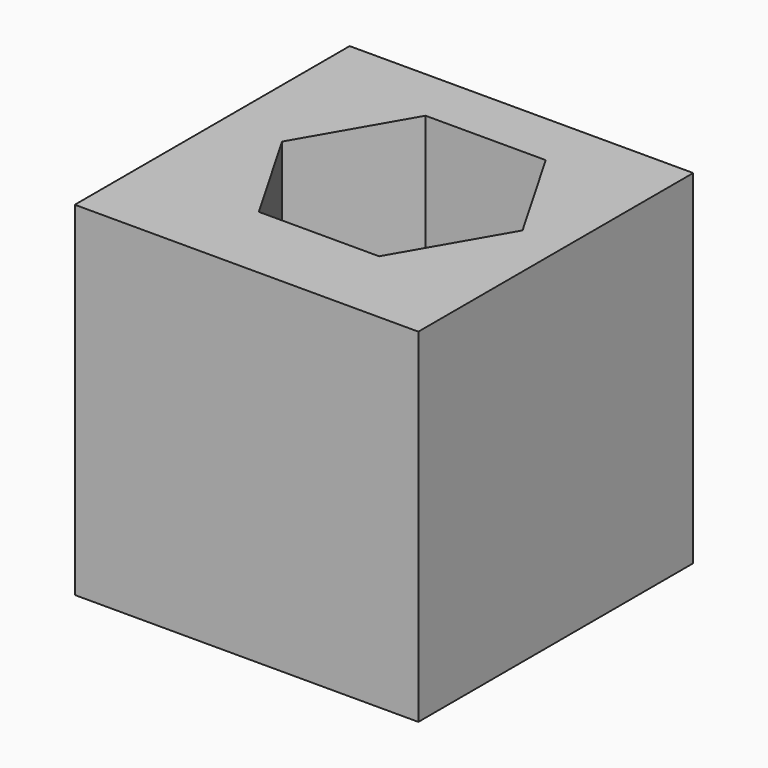
from build123d import *

# Parameters (mm, degrees)
F0_W     = 50
F0_H     = 50
F1_DEPTH = 50
F3_DEPTH = 40
F4_R     = 3.139309
F5_DEPTH = 25


with BuildPart() as f1:
    # F0 (on Top) → F1 (new body)
    with BuildSketch(Plane.XY):
        with Locations((1.594128, -1.850611)):
            Rectangle(F0_W, F0_H)
    extrude(amount=F1_DEPTH)

    # F2 (on face) → F3 (cut)
    with BuildSketch(Plane.XY.offset(50)):
        Polygon((-5.974522, -15.155445), (11.525478, -15.155445), (20.275478, 0), (11.525478, 15.155445), (-5.974522, 15.155445), (-14.724522, 0), align=None)
    extrude(amount=-F3_DEPTH, mode=Mode.SUBTRACT)

    # F4 (on face) → F5 (join)
    with BuildSketch(Plane.XY.offset(10)):
        with Locations((3.275001, 2.058548)):
            Circle(F4_R)
    extrude(amount=F5_DEPTH)


solid = f1.part
